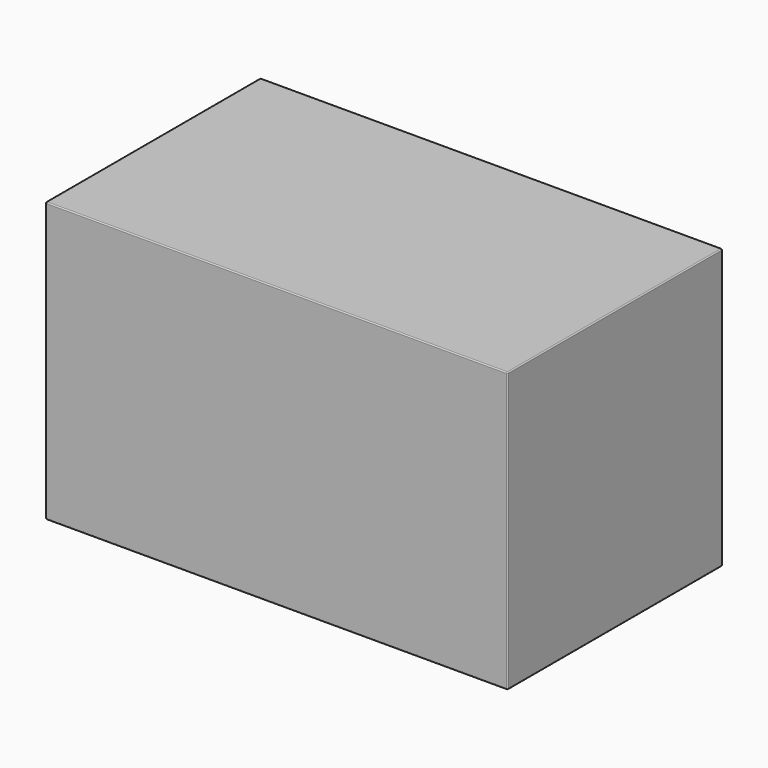
from build123d import *

# Parameters (mm, degrees)
SKETCH_W  = 430
SKETCH_H  = 250
PAD_DEPTH = 260
FILLET_R  = 1


with BuildPart() as part:
    # Sketch → Pad (new body)
    with BuildSketch(Plane.XY):
        with Locations((215, -125)):
            Rectangle(SKETCH_W, SKETCH_H)
    extrude(amount=PAD_DEPTH)

    # Fillet
    fillet_edges = [part.edges().sort_by_distance(p)[0] for p in [
        (0, 0, 130),
        (430, 0, 130),
        (215, 0, 0),
        (215, 0, 260),
        (430, -250, 130),
        (430, -125, 0),
        (430, -125, 260),
        (0, -250, 130),
        (215, -250, 0),
        (215, -250, 260),
        (0, -125, 0),
        (0, -125, 260),
    ]]
    fillet(fillet_edges, radius=FILLET_R)


solid = part.part
